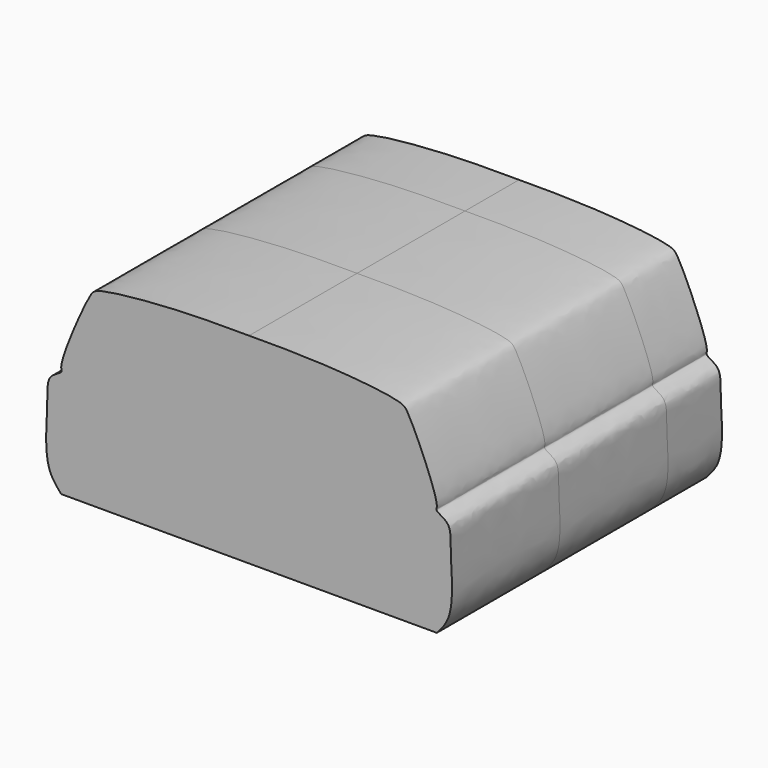
from build123d import *


with BuildPart() as f5:
    # F2 (on offset) → F5 section 0
    with BuildSketch(Plane.XZ.offset(25.4)):
        with BuildLine():
            Line((-70.6733390689, -26.2604607935), (0, -26.2604607935))
            Line((0, -26.2604607935), (70.6733390689, -26.2604607935))
            add(Edge.make_bspline(
                [(70.6733390689, -26.2604607935), (72.2503747875, -24.4718920492), (75.7680387504, -20.4823921647), (76.7742040767, -9.251150277), (75.574150918, 3.6195758118), (76.1574771859, 11.728830556), (70.0035523206, 13.9218157376), (71.2836195608, 15.8696540221), (67.4313457137, 27.112950519), (60.069760365, 43.2389513494), (56.9439913848, 46.5468555103), (27.3647296132, 49.3101097267), (9.229634278, 49.2443538922), (0, 49.210888267)],
                knots=[0, 0, 0, 0, 0.0747414628, 0.1667148987, 0.2685755434, 0.3438818582, 0.4047813095, 0.4363552858, 0.5309952283, 0.6485879671, 0.7043953518, 0.849555641, 1, 1, 1, 1], degree=3))
            add(Edge.make_bspline(
                [(-70.6733390689, -26.2604607935), (-72.2503747875, -24.4718920492), (-75.7680387504, -20.4823921647), (-76.7742040767, -9.251150277), (-75.574150918, 3.6195758118), (-76.1574771859, 11.728830556), (-70.0035523206, 13.9218157376), (-71.2836195608, 15.8696540221), (-67.4313457137, 27.112950519), (-60.069760365, 43.2389513494), (-56.9439913848, 46.5468555103), (-27.3647296132, 49.3101097267), (-9.229634278, 49.2443538922), (0, 49.210888267)],
                knots=[0, 0, 0, 0, 0.0747414628, 0.1667148987, 0.2685755434, 0.3438818582, 0.4047813095, 0.4363552858, 0.5309952283, 0.6485879671, 0.7043953518, 0.849555641, 1, 1, 1, 1], degree=3))
        make_face()
    # F4 (on Front) → F5 section 1
    with BuildSketch(Plane.XZ):
        with BuildLine():
            Line((-70.6733390689, -26.2604607935), (0, -26.2604607935))
            Line((0, -26.2604607935), (70.6733390689, -26.2604607935))
            add(Edge.make_bspline(
                [(70.6733390689, -26.2604607935), (72.2503747875, -24.4718920492), (75.7680387504, -20.4823921647), (76.7742040767, -9.251150277), (75.574150918, 3.6195758118), (76.1574771859, 11.728830556), (70.0035523206, 13.9218157376), (71.2836195608, 15.8696540221), (67.4313457137, 27.112950519), (60.069760365, 43.2389513494), (56.9439913848, 46.5468555103), (27.3647296132, 49.3101097267), (9.229634278, 49.2443538922), (0, 49.210888267)],
                knots=[0, 0, 0, 0, 0.0747414628, 0.1667148987, 0.2685755434, 0.3438818582, 0.4047813095, 0.4363552858, 0.5309952283, 0.6485879671, 0.7043953518, 0.849555641, 1, 1, 1, 1], degree=3))
            add(Edge.make_bspline(
                [(-70.6733390689, -26.2604607935), (-72.2503747875, -24.4718920492), (-75.7680387504, -20.4823921647), (-76.7742040767, -9.251150277), (-75.574150918, 3.6195758118), (-76.1574771859, 11.728830556), (-70.0035523206, 13.9218157376), (-71.2836195608, 15.8696540221), (-67.4313457137, 27.112950519), (-60.069760365, 43.2389513494), (-56.9439913848, 46.5468555103), (-27.3647296132, 49.3101097267), (-9.229634278, 49.2443538922), (0, 49.210888267)],
                knots=[0, 0, 0, 0, 0.0747414628, 0.1667148987, 0.2685755434, 0.3438818582, 0.4047813095, 0.4363552858, 0.5309952283, 0.6485879671, 0.7043953518, 0.849555641, 1, 1, 1, 1], degree=3))
        make_face()
    # F3 (on offset) → F5 section 2
    with BuildSketch(Plane.XZ.offset(-25.4)):
        with BuildLine():
            Line((-70.6733390689, -26.2604607935), (0, -26.2604607935))
            Line((0, -26.2604607935), (70.6733390689, -26.2604607935))
            add(Edge.make_bspline(
                [(70.6733390689, -26.2604607935), (72.2503747875, -24.4718920492), (75.7680387504, -20.4823921647), (76.7742040767, -9.251150277), (75.574150918, 3.6195758118), (76.1574771859, 11.728830556), (70.0035523206, 13.9218157376), (71.2836195608, 15.8696540221), (67.4313457137, 27.112950519), (60.069760365, 43.2389513494), (56.9439913848, 46.5468555103), (27.3647296132, 49.3101097267), (9.229634278, 49.2443538922), (0, 49.210888267)],
                knots=[0, 0, 0, 0, 0.0747414628, 0.1667148987, 0.2685755434, 0.3438818582, 0.4047813095, 0.4363552858, 0.5309952283, 0.6485879671, 0.7043953518, 0.849555641, 1, 1, 1, 1], degree=3))
            add(Edge.make_bspline(
                [(-70.6733390689, -26.2604607935), (-72.2503747875, -24.4718920492), (-75.7680387504, -20.4823921647), (-76.7742040767, -9.251150277), (-75.574150918, 3.6195758118), (-76.1574771859, 11.728830556), (-70.0035523206, 13.9218157376), (-71.2836195608, 15.8696540221), (-67.4313457137, 27.112950519), (-60.069760365, 43.2389513494), (-56.9439913848, 46.5468555103), (-27.3647296132, 49.3101097267), (-9.229634278, 49.2443538922), (0, 49.210888267)],
                knots=[0, 0, 0, 0, 0.0747414628, 0.1667148987, 0.2685755434, 0.3438818582, 0.4047813095, 0.4363552858, 0.5309952283, 0.6485879671, 0.7043953518, 0.849555641, 1, 1, 1, 1], degree=3))
        make_face()
    loft()

    # F12 (on offset) → F13 section 0
    with BuildSketch(Plane.XZ.offset(76.2)):
        with BuildLine():
            Line((-70.6733390689, -26.2604607935), (0, -26.2604607935))
            Line((0, -26.2604607935), (70.6733390689, -26.2604607935))
            add(Edge.make_bspline(
                [(70.6733390689, -26.2604607935), (72.2503747875, -24.4718920492), (75.7680387504, -20.4823921647), (76.7742040767, -9.251150277), (75.574150918, 3.6195758118), (76.1574771859, 11.728830556), (70.0035523206, 13.9218157376), (71.2836195608, 15.8696540221), (67.4313457137, 27.112950519), (60.069760365, 43.2389513494), (56.9439913848, 46.5468555103), (27.3647296132, 49.3101097267), (9.229634278, 49.2443538922), (0, 49.210888267)],
                knots=[0, 0, 0, 0, 0.0747414628, 0.1667148987, 0.2685755434, 0.3438818582, 0.4047813095, 0.4363552858, 0.5309952283, 0.6485879671, 0.7043953518, 0.849555641, 1, 1, 1, 1], degree=3))
            add(Edge.make_bspline(
                [(-70.6733390689, -26.2604607935), (-72.2503747875, -24.4718920492), (-75.7680387504, -20.4823921647), (-76.7742040767, -9.251150277), (-75.574150918, 3.6195758118), (-76.1574771859, 11.728830556), (-70.0035523206, 13.9218157376), (-71.2836195608, 15.8696540221), (-67.4313457137, 27.112950519), (-60.069760365, 43.2389513494), (-56.9439913848, 46.5468555103), (-27.3647296132, 49.3101097267), (-9.229634278, 49.2443538922), (0, 49.210888267)],
                knots=[0, 0, 0, 0, 0.0747414628, 0.1667148987, 0.2685755434, 0.3438818582, 0.4047813095, 0.4363552858, 0.5309952283, 0.6485879671, 0.7043953518, 0.849555641, 1, 1, 1, 1], degree=3))
        make_face()
    # F9 (on offset) → F13 section 1
    with BuildSketch(Plane.XZ.offset(50.8)):
        with BuildLine():
            Line((-70.6733390689, -26.2604607935), (0, -26.2604607935))
            Line((0, -26.2604607935), (70.6733390689, -26.2604607935))
            add(Edge.make_bspline(
                [(70.6733390689, -26.2604607935), (72.2503747875, -24.4718920492), (75.7680387504, -20.4823921647), (76.7742040767, -9.251150277), (75.574150918, 3.6195758118), (76.1574771859, 11.728830556), (70.0035523206, 13.9218157376), (71.2836195608, 15.8696540221), (67.4313457137, 27.112950519), (60.069760365, 43.2389513494), (56.9439913848, 46.5468555103), (27.3647296132, 49.3101097267), (9.229634278, 49.2443538922), (0, 49.210888267)],
                knots=[0, 0, 0, 0, 0.0747414628, 0.1667148987, 0.2685755434, 0.3438818582, 0.4047813095, 0.4363552858, 0.5309952283, 0.6485879671, 0.7043953518, 0.849555641, 1, 1, 1, 1], degree=3))
            add(Edge.make_bspline(
                [(-70.6733390689, -26.2604607935), (-72.2503747875, -24.4718920492), (-75.7680387504, -20.4823921647), (-76.7742040767, -9.251150277), (-75.574150918, 3.6195758118), (-76.1574771859, 11.728830556), (-70.0035523206, 13.9218157376), (-71.2836195608, 15.8696540221), (-67.4313457137, 27.112950519), (-60.069760365, 43.2389513494), (-56.9439913848, 46.5468555103), (-27.3647296132, 49.3101097267), (-9.229634278, 49.2443538922), (0, 49.210888267)],
                knots=[0, 0, 0, 0, 0.0747414628, 0.1667148987, 0.2685755434, 0.3438818582, 0.4047813095, 0.4363552858, 0.5309952283, 0.6485879671, 0.7043953518, 0.849555641, 1, 1, 1, 1], degree=3))
        make_face()
    # F7 (on offset) → F13 section 2
    with BuildSketch(Plane.XZ.offset(-50.8)):
        with BuildLine():
            Line((-70.6733390689, -26.2604607935), (0, -26.2604607935))
            Line((0, -26.2604607935), (70.6733390689, -26.2604607935))
            add(Edge.make_bspline(
                [(70.6733390689, -26.2604607935), (72.2503747875, -24.4718920492), (75.7680387504, -20.4823921647), (76.7742040767, -9.251150277), (75.574150918, 3.6195758118), (76.1574771859, 11.728830556), (70.0035523206, 13.9218157376), (71.2836195608, 15.8696540221), (67.4313457137, 27.112950519), (60.069760365, 43.2389513494), (56.9439913848, 46.5468555103), (27.3647296132, 49.3101097267), (9.229634278, 49.2443538922), (0, 49.210888267)],
                knots=[0, 0, 0, 0, 0.0747414628, 0.1667148987, 0.2685755434, 0.3438818582, 0.4047813095, 0.4363552858, 0.5309952283, 0.6485879671, 0.7043953518, 0.849555641, 1, 1, 1, 1], degree=3))
            add(Edge.make_bspline(
                [(-70.6733390689, -26.2604607935), (-72.2503747875, -24.4718920492), (-75.7680387504, -20.4823921647), (-76.7742040767, -9.251150277), (-75.574150918, 3.6195758118), (-76.1574771859, 11.728830556), (-70.0035523206, 13.9218157376), (-71.2836195608, 15.8696540221), (-67.4313457137, 27.112950519), (-60.069760365, 43.2389513494), (-56.9439913848, 46.5468555103), (-27.3647296132, 49.3101097267), (-9.229634278, 49.2443538922), (0, 49.210888267)],
                knots=[0, 0, 0, 0, 0.0747414628, 0.1667148987, 0.2685755434, 0.3438818582, 0.4047813095, 0.4363552858, 0.5309952283, 0.6485879671, 0.7043953518, 0.849555641, 1, 1, 1, 1], degree=3))
        make_face()
    loft()


solid = f5.part
